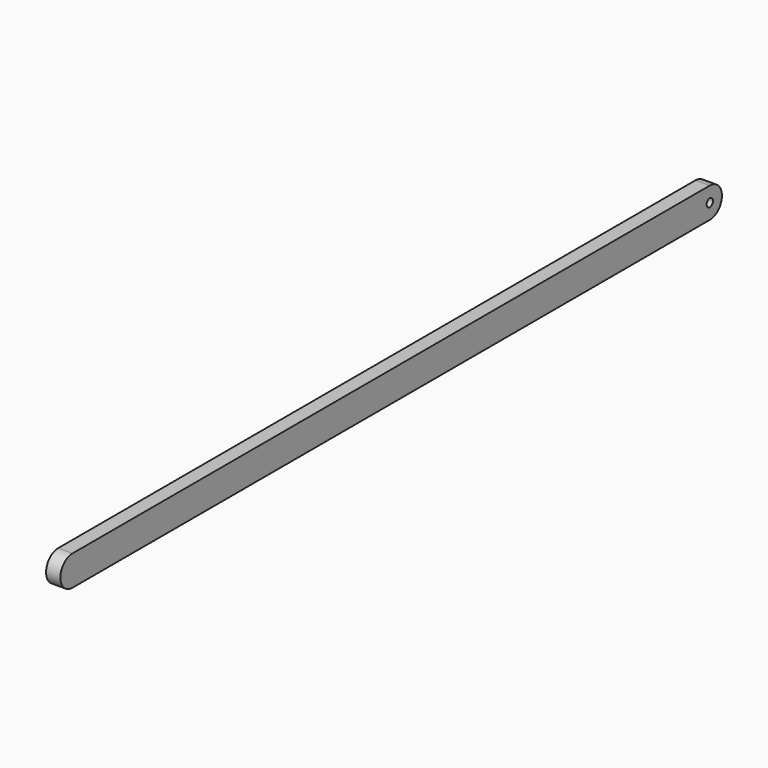
from build123d import *

# Parameters (mm, degrees)
F0_R     = 12.5
F1_DEPTH = 45


with BuildPart() as f1:
    # F0 (on Right) → F1 (new body)
    with BuildSketch(Plane.YZ):
        with BuildLine():
            Line((2482.896477, 49.036183), (-22.103523, 49.036183))
            ThreePointArc((-22.103523, 49.036183), (-69.603523, 1.536183), (-22.103523, -45.963817))
            Line((-22.103523, -45.963817), (2482.896477, -45.963817))
            ThreePointArc((2482.896477, -45.963817), (2530.396477, 1.536183), (2482.896477, 49.036183))
        make_face()
        with Locations((2482.896477, 1.536183)):
            Circle(F0_R, mode=Mode.SUBTRACT)
    extrude(amount=F1_DEPTH)


solid = f1.part
